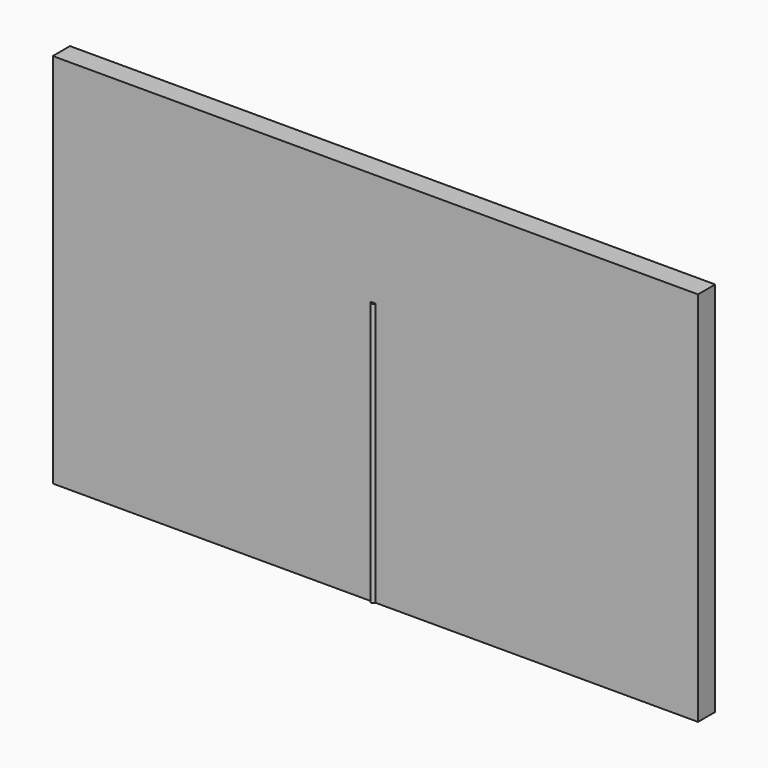
from build123d import *

# Parameters (mm, degrees)
F0_W     = 0.508
F0_H     = 62.23
F1_DEPTH = 5.08


with BuildPart() as f1:
    # F0 (on Front) → F1 (new body)
    with BuildSketch(Plane.XZ):
        Polygon((42.380487, 20.942537), (-110.019513, 20.942537), (-110.019513, -67.957463), (-34.327513, -67.957463), (-34.327513, -5.727463), (-33.819513, -5.727463), (-33.819513, -67.957463), (42.380487, -67.957463), align=None)
        with Locations((-34.073513, -36.842463)):
            Rectangle(F0_W, F0_H)
    extrude(amount=-F1_DEPTH)

    # F0 (on Front) → F2 (revolve)
    with BuildSketch(Plane.XZ):
        with Locations((-34.073513, -36.842463)):
            Rectangle(F0_W, F0_H)
    revolve(axis=Axis((-34.327513, 0, -36.842463), (0, 0, -1)))


solid = f1.part
